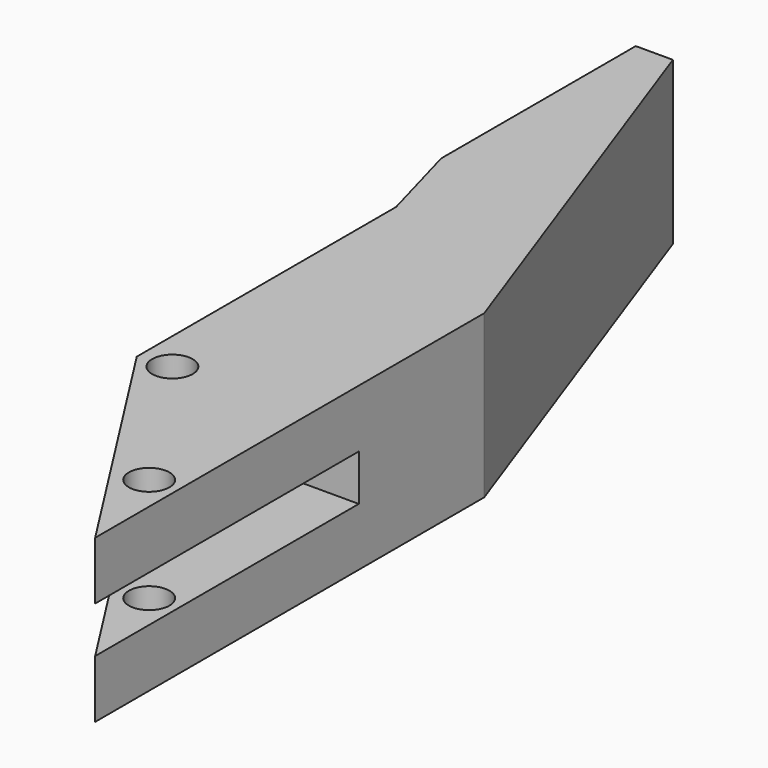
from build123d import *

# Parameters (mm, degrees)
SKETCH002_R      = 1.25
EXTRUDE002_DEPTH = 10
SKETCH001_W      = 21
SKETCH001_H      = 2.85
EXTRUDE001_DEPTH = 12
EXTRUDE_DEPTH    = 10


with BuildPart() as extrude002:
    # Sketch002 (on Face5 of Cut) → Extrude002 (new body)
    with BuildSketch(Plane.XY.offset(10)):
        with Locations((32.341689, 32.041152)):
            Circle(SKETCH002_R)
        with Locations((38.850059, 22.11452)):
            Circle(SKETCH002_R)
    extrude(amount=-EXTRUDE002_DEPTH)


with BuildPart() as extrude001:
    # Sketch001 (on Face1 of Extrude) → Extrude001 (new body)
    with BuildSketch(Plane(origin=(28.885191, 0, 0), x_dir=(0, -1, 0), z_dir=(-1, 0, 0))):
        with Locations((-25.598607, 5)):
            Rectangle(SKETCH001_W, SKETCH001_H)
    extrude(amount=-EXTRUDE001_DEPTH)


with BuildPart() as cut001:
    # Sketch → Extrude (new body)
    with BuildSketch(Plane.XY):
        Polygon((30.354899, 31.776263), (40.592222, 15.770101), (40.592222, 45.770101), (31.175097, 72.086635), (28.885191, 72.086635), (28.885191, 57.086635), (30.354899, 51.776263), align=None)
    extrude(amount=EXTRUDE_DEPTH)

    # Cut: cut Extrude001
    add(extrude001.part, mode=Mode.SUBTRACT)

    # Cut001: cut Extrude002
    add(extrude002.part, mode=Mode.SUBTRACT)


solid = cut001.part
